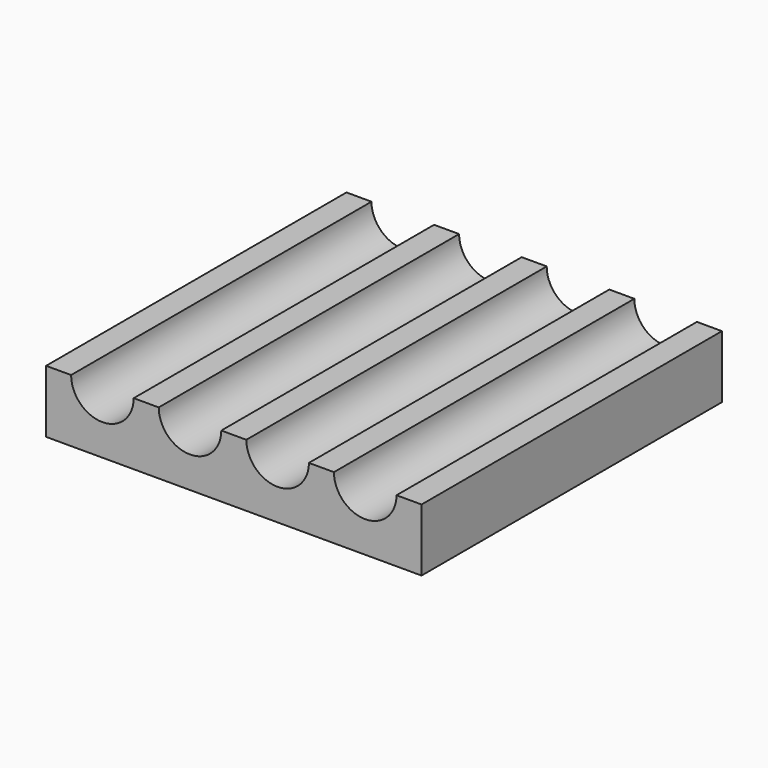
from build123d import *

# Parameters (mm, degrees)
F0_W     = 76.2
F0_H     = 76.2
F1_DEPTH = 12.7
F3_DEPTH = 76.201


with BuildPart() as f1:
    # F0 (on Top) → F1 (new body)
    with BuildSketch(Plane.XY):
        with Locations((38.1, 38.1)):
            Rectangle(F0_W, F0_H)
    extrude(amount=F1_DEPTH)

    # F2 (on face) → F3 (cut, through all)
    with BuildSketch(Plane.XZ):
        with BuildLine():
            ThreePointArc((5.08, 12.7), (11.43, 6.35), (17.78, 12.7))
            Line((17.78, 12.7), (5.08, 12.7))
        make_face()
        with BuildLine():
            Line((35.56, 12.7), (22.86, 12.7))
            ThreePointArc((22.86, 12.7), (29.21, 6.35), (35.56, 12.7))
        make_face()
        with BuildLine():
            Line((53.34, 12.7), (40.64, 12.7))
            ThreePointArc((40.64, 12.7), (46.99, 6.35), (53.34, 12.7))
        make_face()
        with BuildLine():
            Line((71.12, 12.7), (58.42, 12.7))
            ThreePointArc((58.42, 12.7), (64.77, 6.35), (71.12, 12.7))
        make_face()
    extrude(amount=-F3_DEPTH, mode=Mode.SUBTRACT)


solid = f1.part
